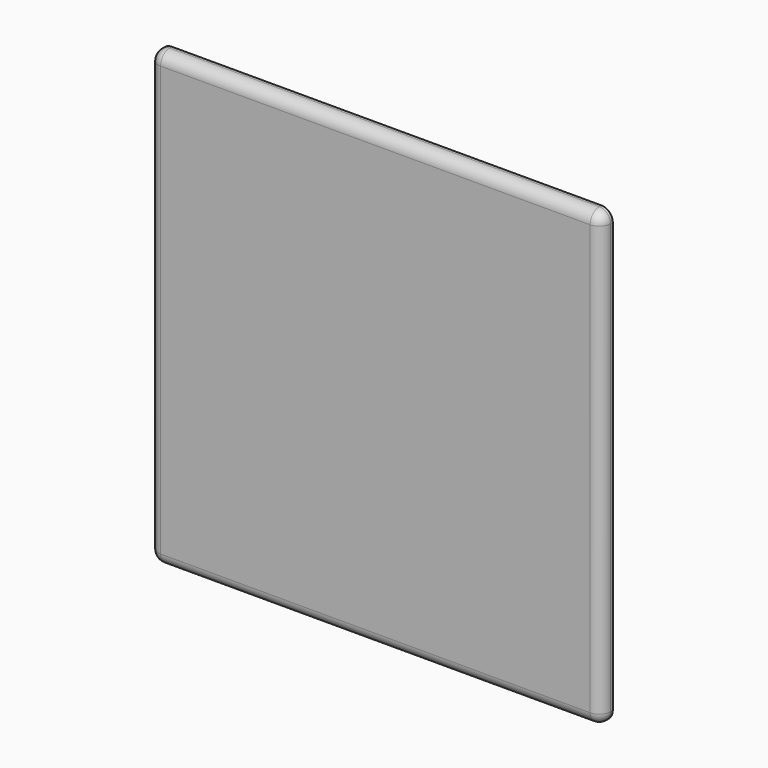
from build123d import *

# Parameters (mm, degrees)
F0_W     = 406.4
F0_H     = 406.4
F1_DEPTH = 6.35
F2_R     = 10.16


with BuildPart() as f1:
    # F0 (on Front) → F1 (new body, symmetric)
    with BuildSketch(Plane.XZ):
        Rectangle(F0_W, F0_H)
    extrude(amount=F1_DEPTH, both=True)

    # F2
    f2_edges = [f1.edges().sort_by_distance(p)[0] for p in [
        (0, -6.35, 203.2),
        (-203.2, -6.35, 0),
        (0, -6.35, -203.2),
        (203.2, -6.35, 0),
        (-203.2, 0, -203.2),
        (-203.2, 0, 203.2),
        (203.2, 0, 203.2),
        (203.2, 0, -203.2),
    ]]
    fillet(f2_edges, radius=F2_R)


solid = f1.part
